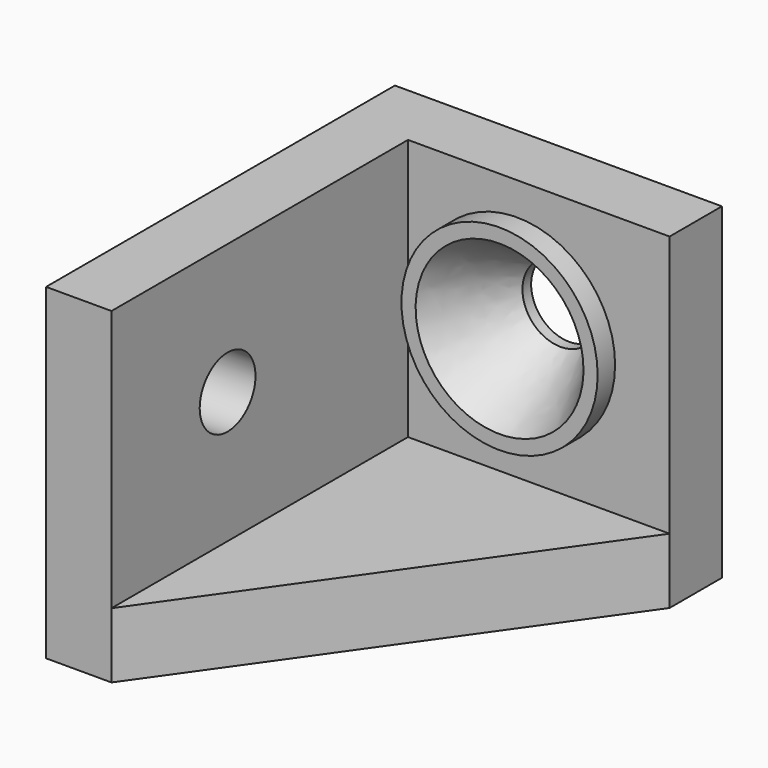
from build123d import *

# Parameters (mm, degrees)
F1_DEPTH = 3
F0_W     = 12
F0_H     = 3
F0_W_2   = 3
F0_H_2   = 17
F2_DEPTH = 15
F3_R     = 1.75
F4_DEPTH = 25
F3_R_2   = 4.5
F3_R_3   = 3.5
F5_DEPTH = 1
F6_DEPTH = 1
F7_SIZE2 = 2.1
F7_SIZE  = 3.5
F8_R     = 1.6
F9_DEPTH = 25


with BuildPart() as f1:
    # F0 (on Top) → F1 (new body)
    with BuildSketch(Plane.XY):
        Polygon((-4.5, -10), (7.5, 7), (-4.5, 7), align=None)
    extrude(amount=F1_DEPTH)

    # F0 (on Top) → F2 (join)
    with BuildSketch(Plane.XY):
        with Locations((1.5, 8.5)):
            Rectangle(F0_W, F0_H)
        with Locations((-6, 8.5)):
            Rectangle(F0_W_2, F0_H)
        with Locations((-6, -1.5)):
            Rectangle(F0_W_2, F0_H_2)
    extrude(amount=F2_DEPTH)

    # F3 (on face) → F4 (cut)
    with BuildSketch(Plane.XZ.offset(-7)):
        with Locations((0.5, 9)):
            Circle(F3_R)
    extrude(amount=-F4_DEPTH, mode=Mode.SUBTRACT)

    # F3 (on face) → F5 (join)
    with BuildSketch(Plane.XZ.offset(-7)):
        with Locations((0.5, 9)):
            Circle(F3_R_2)
        with Locations((0.5, 9)):
            Circle(F3_R_3, mode=Mode.SUBTRACT)
    extrude(amount=F5_DEPTH)

    # F3 (on face) → F6 (join)
    with BuildSketch(Plane.XZ.offset(-7)):
        with Locations((0.5, 9)):
            Circle(F3_R_3)
        with Locations((0.5, 9)):
            Circle(F3_R, mode=Mode.SUBTRACT)
    extrude(amount=F6_DEPTH)

    # F7
    f7_edges = [f1.edges().sort_by_distance(p)[0] for p in [
        (-1.25, 6, 9),
    ]]
    chamfer(f7_edges, length=F7_SIZE, length2=F7_SIZE2)

    # F8 (on face) → F9 (cut)
    with BuildSketch(Plane(origin=(-7.5, 0, 0), x_dir=(0, -1, 0), z_dir=(-1, 0, 0))):
        with Locations((3.342046, 9.021713)):
            Circle(F8_R)
    extrude(amount=-F9_DEPTH, mode=Mode.SUBTRACT)


solid = f1.part
